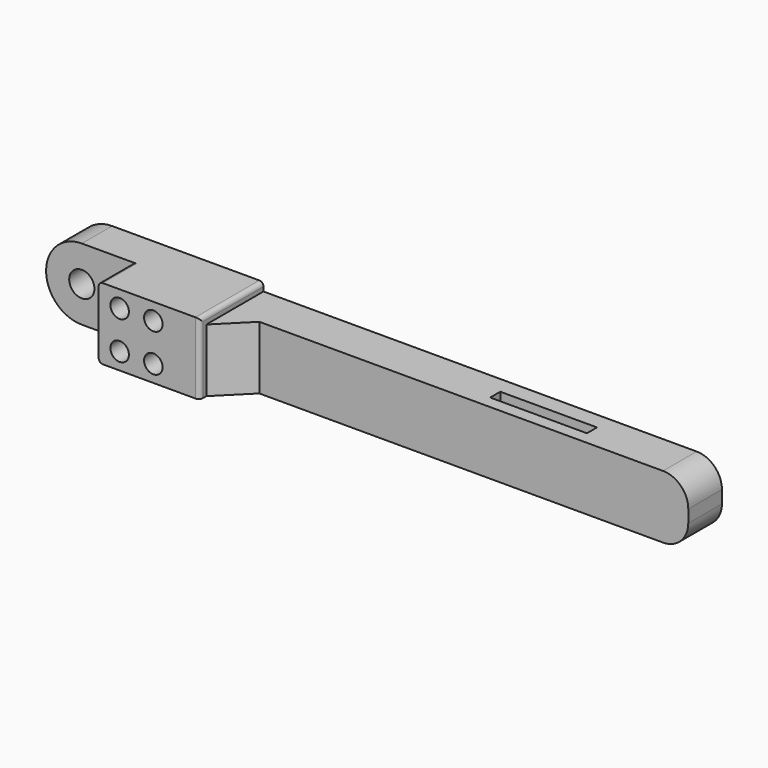
from build123d import *

# Parameters (mm, degrees)
CYLINDER046_R          = 2.2
CYLINDER046_DEPTH      = 26
CYLINDER046_ROLL_ANGLE = -90
ARRAY017_X_COUNT       = 2
ARRAY017_X_PITCH       = 8
ARRAY017_Z_COUNT       = 2
ARRAY017_Z_PITCH       = 9
BOX059_W               = 23
BOX059_H               = 3
BOX059_DEPTH           = 20
BOX057_W               = 130
BOX057_H               = 10
BOX057_DEPTH           = 15
SKETCH072_R            = 3
PAD073_DEPTH           = 9
FILLET025_R            = 1
BOX058_W               = 24
BOX058_H               = 10
BOX058_DEPTH           = 17
FILLET026_R            = 1
CHAMFER010_SIZE        = 7
FILLET027_R            = 6


with BuildPart() as obj1:
    # Cylinder046 → Cylinder046 (new body)
    with BuildSketch(Plane.XY):
        Circle(CYLINDER046_R)
    extrude(amount=CYLINDER046_DEPTH)


with BuildPart() as obj1_1:
    # Cylinder046 roll: moved
    add(obj1.part.rotate(Axis((0, 0, 0), (1, 0, 0)), CYLINDER046_ROLL_ANGLE))


with BuildPart() as obj1_2:
    # Cylinder046 placement: moved
    add(obj1_1.part.moved(Location((202, 0, 4))))

    # Array017 X: obj1_2


with BuildPart() as obj1_3:
    add(obj1_2.part)
    with Locations(*[(i * ARRAY017_X_PITCH, 0, 0) for i in range(1, ARRAY017_X_COUNT)]):
        add(obj1_2.part)

    # Array017 Z: obj1_2


with BuildPart() as obj1_4:
    add(obj1_3.part)
    with Locations(*[(0, 0, i * ARRAY017_Z_PITCH) for i in range(1, ARRAY017_Z_COUNT)]):
        add(obj1_3.part)


with BuildPart() as obj2:
    # Box059 → Box059 (new body)
    with BuildSketch(Plane(origin=(280.5, 5, 0), x_dir=(1, 0, 0), z_dir=(0, 0, 1))):
        with Locations((11.5, 1.5)):
            Rectangle(BOX059_W, BOX059_H)
    extrude(amount=BOX059_DEPTH)


with BuildPart() as base_tibia001:
    # Box057 → Box057 (new body)
    with BuildSketch(Plane(origin=(200, 1.5, 0), x_dir=(1, 0, 0), z_dir=(0, 0, 1))):
        with Locations((65, 5)):
            Rectangle(BOX057_W, BOX057_H)
    extrude(amount=BOX057_DEPTH)


with BuildPart() as obj3:
    # Sketch072 → Pad073 (new body)
    with BuildSketch(Plane(origin=(221, 10.5, 0), x_dir=(1, 0, 0), z_dir=(0, -1, 0))):
        with BuildLine():
            Line((0, 17), (-36, 17))
            ThreePointArc((-36, 17), (-44.500015, 8.5), (-36, 0))
            Line((-36, 0), (0, 0))
            Line((0, 0), (0, 17))
        make_face()
        with Locations((-36.000015, 8.5)):
            Circle(SKETCH072_R, mode=Mode.SUBTRACT)
    extrude(amount=PAD073_DEPTH)

    # Fillet025
    fillet025_edges = [obj3.edges().sort_by_distance(p)[0] for p in [
        (221, 6, 17),
        (221, 6, 0),
    ]]
    fillet(fillet025_edges, radius=FILLET025_R)

    # Fusion009003068: union Base_tibia001
    add(base_tibia001.part)


with BuildPart() as obj3_1:
    # Fusion009003068 placement: moved
    add(obj3.part.moved(Location((0, -0.5, 0))))

    # Cut051: cut obj2
    add(obj2.part, mode=Mode.SUBTRACT)


with BuildPart() as obj4:
    # Box058 → Box058 (new body)
    with BuildSketch(Plane(origin=(197, 10, 0), x_dir=(1, 0, 0), z_dir=(0, 0, 1))):
        with Locations((12, 5)):
            Rectangle(BOX058_W, BOX058_H)
    extrude(amount=BOX058_DEPTH)

    # Fillet026
    fillet026_edges = [obj4.edges().sort_by_distance(p)[0] for p in [
        (197, 15, 17),
        (197, 15, 0),
        (221, 15, 17),
        (221, 20, 8.5),
    ]]
    fillet(fillet026_edges, radius=FILLET026_R)

    # Fusion009003071: union obj3
    add(obj3_1.part)

    # Chamfer010
    chamfer010_edges = [obj4.edges().sort_by_distance(p)[0] for p in [
        (221, 11, 7.5),
    ]]
    chamfer(chamfer010_edges, length=CHAMFER010_SIZE)

    # Cut052: cut obj1
    add(obj1_4.part, mode=Mode.SUBTRACT)

    # Fillet027
    fillet027_edges = [obj4.edges().sort_by_distance(p)[0] for p in [
        (330, 6, 0),
        (330, 6, 15),
    ]]
    fillet(fillet027_edges, radius=FILLET027_R)


with BuildPart() as tibia_derecha_full:
    # Part__Mirroring016: instance of obj4
    add(obj4.part.mirror(Plane(origin=(0, 0, 0), x_dir=(1, 0, 0), z_dir=(0, 1, 0))))


with BuildPart() as tibia_derecha_full_1:
    # Part__Mirroring016 placement: moved
    add(tibia_derecha_full.part.moved(Location((0, -178, 0))))


solid = tibia_derecha_full_1.part
